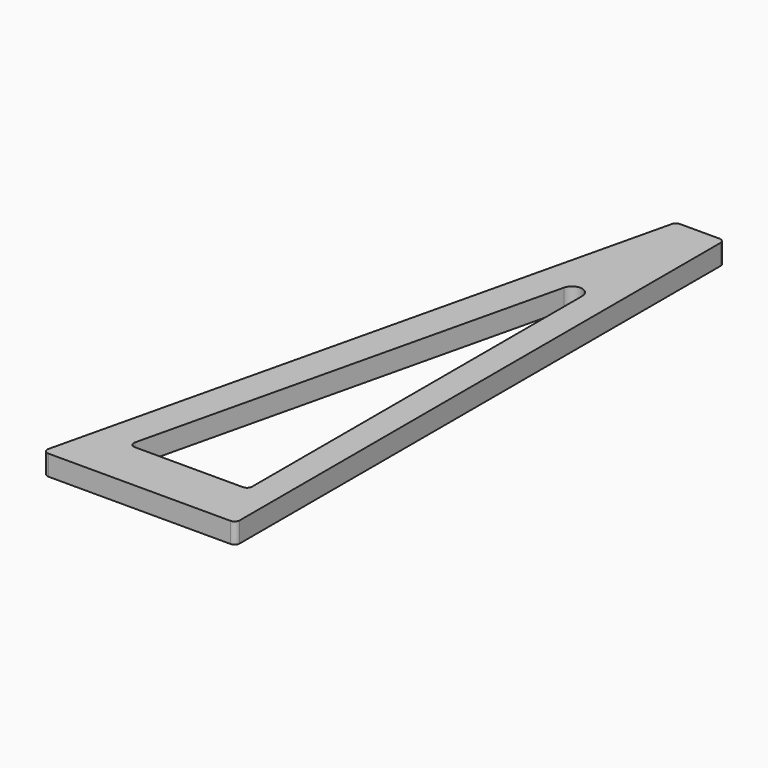
from build123d import *

# Parameters (mm, degrees)
F1_DEPTH = 20
F2_R     = 5
F3_R     = 10


with BuildPart() as f1:
    # F0 (on Top) → F1 (new body)
    with BuildSketch(Plane.XY):
        Polygon((95, 300), (47.234748, 300), (-95, -300), (95, -300), align=None)
        Polygon((67.441747, -250.368297), (-50.0391, -250.368297), (67.441747, 245.210379), align=None, mode=Mode.SUBTRACT)
    extrude(amount=F1_DEPTH)

    # F2
    f2_edges = [f1.edges().sort_by_distance(p)[0] for p in [
        (95, 300, 10),
        (95, -300, 10),
        (-95, -300, 10),
        (67.441747, -250.368297, 10),
        (-50.0391, -250.368297, 10),
        (47.234748, 300, 10),
    ]]
    fillet(f2_edges, radius=F2_R)

    # F3
    f3_edges = [f1.edges().sort_by_distance(p)[0] for p in [
        (67.441747, 245.210379, 10),
    ]]
    fillet(f3_edges, radius=F3_R)


solid = f1.part
